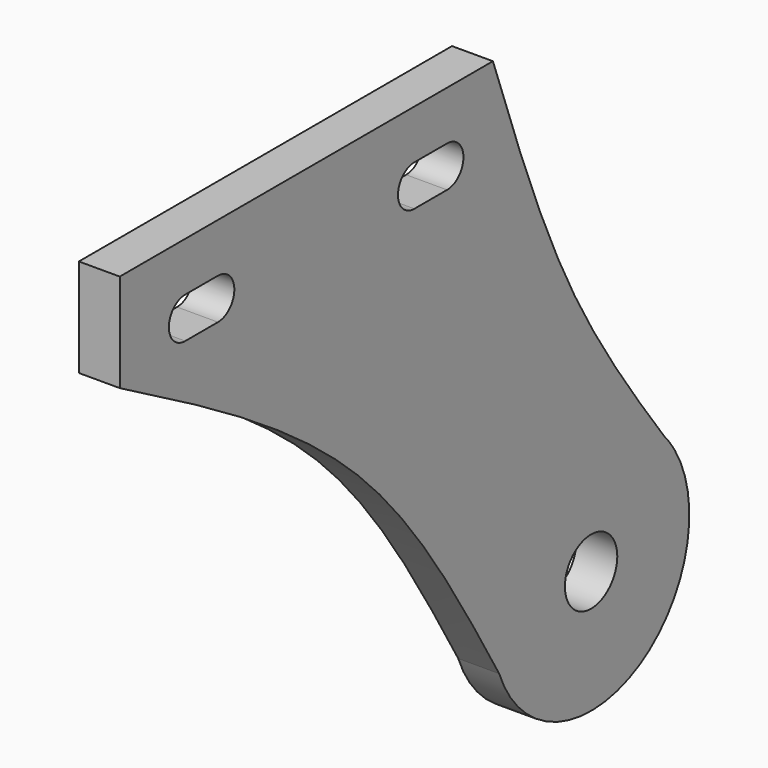
from build123d import *

# Parameters (mm, degrees)
F0_R     = 4
F1_DEPTH = 5


with BuildPart() as f1:
    # F0 (on Right) → F1 (new body)
    with BuildSketch(Plane.YZ):
        with BuildLine():
            add(Edge.make_bspline(
                [(-72, 49), (-58.7651472885, 41.6942679299), (-33.3254798656, 27.6545707522), (-20.2935916666, 5.392266097), (-14.0380805906, -5.2851010711)],
                knots=[0, 0, 0, 0, 0.5202964859, 1, 1, 1, 1], degree=3))
            ThreePointArc((-14.0380805906, -5.2851010711), (6.5811684221, -13.4791773562), (12.8009286825, 7.8189657158))
            add(Edge.make_bspline(
                [(11.1985838646, 9.9795650921), (11.7320881968, 9.2587562619), (12.2665084396, 8.5388609888), (12.8009286825, 7.8189657158)],
                knots=[0.9535434139, 0.9535434139, 0.9535434139, 0.9535434139, 1, 1, 1, 1], degree=3))
            add(Edge.make_bspline(
                [(-15, 61), (-11.3545831433, 50.7401207014), (-4.6080003727, 31.7521345189), (6.1650583093, 16.780277755), (11.1985838646, 9.9795650921)],
                knots=[0, 0, 0, 0, 0.515233171, 0.9535434139, 0.9535434139, 0.9535434139, 0.9535434139], degree=3))
            Line((-15, 61), (-72, 61))
            Line((-72, 61), (-72, 49))
        make_face()
        Circle(F0_R, mode=Mode.SUBTRACT)
        with BuildLine():
            ThreePointArc((-62, 50), (-64.5, 52.5), (-62, 55))
            Line((-62, 55), (-57, 55))
            ThreePointArc((-57, 55), (-54.5, 52.5), (-57, 50))
            Line((-57, 50), (-62, 50))
        make_face(mode=Mode.SUBTRACT)
        with BuildLine():
            ThreePointArc((-27, 50), (-29.5, 52.5), (-27, 55))
            Line((-27, 55), (-22, 55))
            ThreePointArc((-22, 55), (-19.5, 52.5), (-22, 50))
            Line((-22, 50), (-27, 50))
        make_face(mode=Mode.SUBTRACT)
        with BuildLine():
            add(Edge.make_bspline(
                [(11.1985838646, 9.9795650921), (11.7320881968, 9.2587562619), (12.2665084396, 8.5388609888), (12.8009286825, 7.8189657158)],
                knots=[0.9535434139, 0.9535434139, 0.9535434139, 0.9535434139, 1, 1, 1, 1], degree=3))
            ThreePointArc((12.8009286825, 7.8189657158), (12.0482861039, 8.9352561216), (11.1985838646, 9.9795650921))
        make_face()
    extrude(amount=F1_DEPTH)


solid = f1.part
